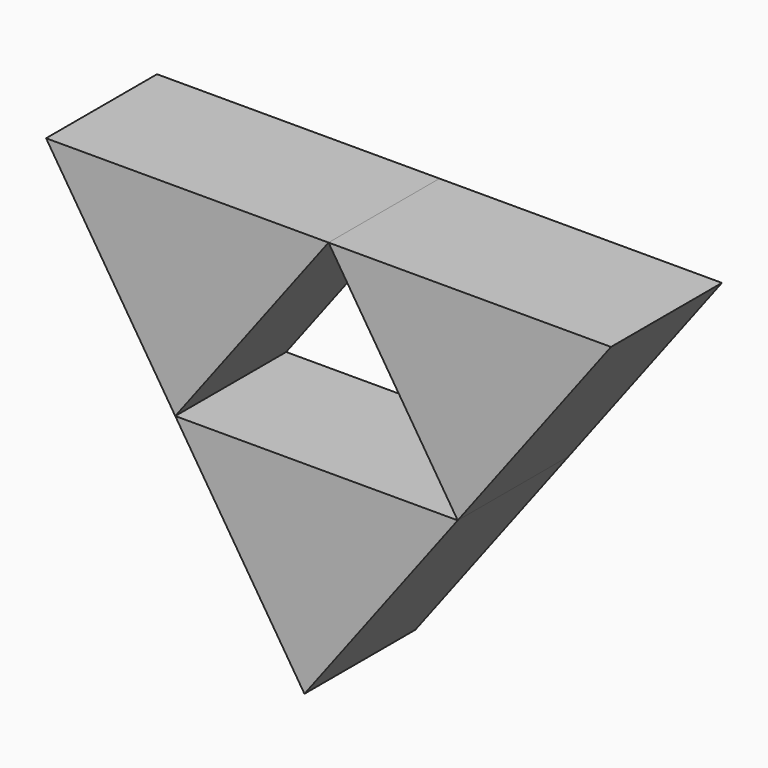
from build123d import *

# Parameters (mm, degrees)
F1_DEPTH = 25.4


with BuildPart() as f1:
    # F0 (on Front) → F1 (new body)
    with BuildSketch(Plane.XZ):
        Polygon((19.250526, -7.620001), (-32.485264, -7.620001), (-8.823158, -44.717371), align=None)
        Polygon((-4.41158, 29.477369), (-56.14737, 29.477369), (-32.485264, -7.620001), align=None)
        Polygon((47.32421, 29.477369), (-4.41158, 29.477369), (19.250526, -7.620001), align=None)
    extrude(amount=F1_DEPTH)


solid = f1.part
